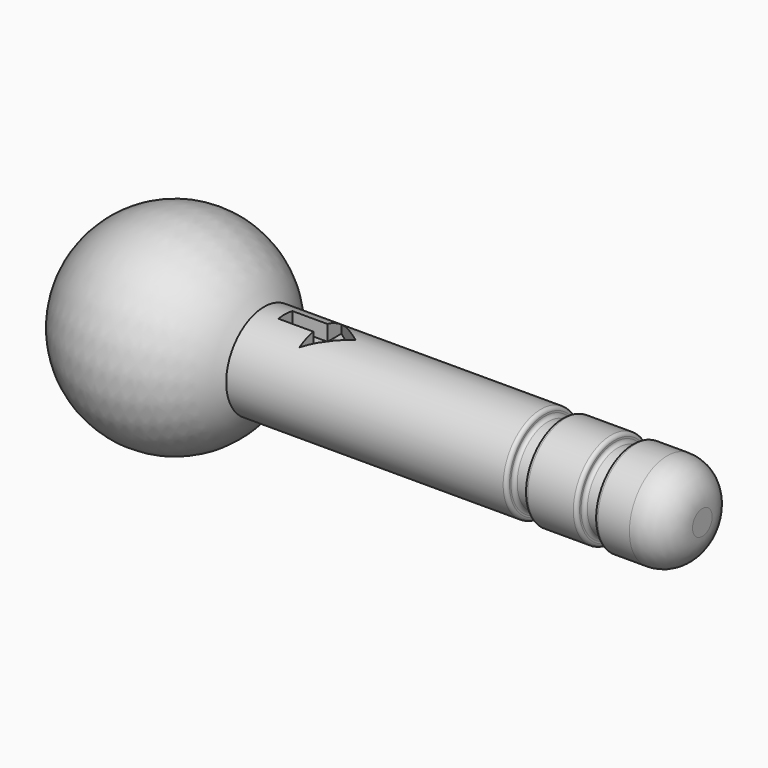
from build123d import *

# Parameters (mm, degrees)
PAD_DEPTH   = 1
FILLET_R    = 0.2
FILLET001_R = 2


with BuildPart() as pad:
    # Sketch001 → Pad (new body)
    with BuildSketch(Plane.XY.offset(2.75)):
        Polygon((12, 0.555232), (12, -0.444768), (14, -0.444768), (14, -1.444768), (16, 0.055232), (14, 1.555232), (14, 0.555232), align=None)
    extrude(amount=-PAD_DEPTH)


with BuildPart() as fillet001:
    # Sketch → Revolution (revolve)
    with BuildSketch(Plane.XY):
        with BuildLine():
            Line((0, 0), (35.826662, 0))
            Line((35.826662, 0), (35.826662, 2.7))
            Line((31.826662, 2.7), (35.826662, 2.7))
            Line((31.826662, 2.2), (31.826662, 2.7))
            Line((30.826662, 2.2), (31.826662, 2.2))
            Line((30.826662, 2.7), (30.826662, 2.2))
            Line((27.826662, 2.7), (30.826662, 2.7))
            Line((27.826662, 2.2), (27.826662, 2.7))
            Line((26.826662, 2.2), (27.826662, 2.2))
            Line((26.826662, 2.7), (26.826662, 2.2))
            Line((10.826662, 2.7), (26.826662, 2.7))
            ThreePointArc((10.826662, 2.7), (4.358653, 5.579127), (0, 0))
        make_face()
    revolve(axis=Axis((0, 0, 0), (1, 0, 0)))

    # Cut: cut Pad
    add(pad.part, mode=Mode.SUBTRACT)

    # Fillet
    fillet_edges = [fillet001.edges().sort_by_distance(p)[0] for p in [
        (30.826662, -2.2, 0),
        (30.826662, -2.7, 0),
        (31.826662, -2.7, 0),
        (27.826662, -2.7, 0),
        (26.826662, -2.2, 0),
        (26.826662, -2.7, 0),
        (31.826662, -2.2, 0),
        (27.826662, -2.2, 0),
    ]]
    fillet(fillet_edges, radius=FILLET_R)

    # Fillet001
    fillet001_edges = [fillet001.edges().sort_by_distance(p)[0] for p in [
        (35.826662, -2.7, 0),
    ]]
    fillet(fillet001_edges, radius=FILLET001_R)


solid = fillet001.part
